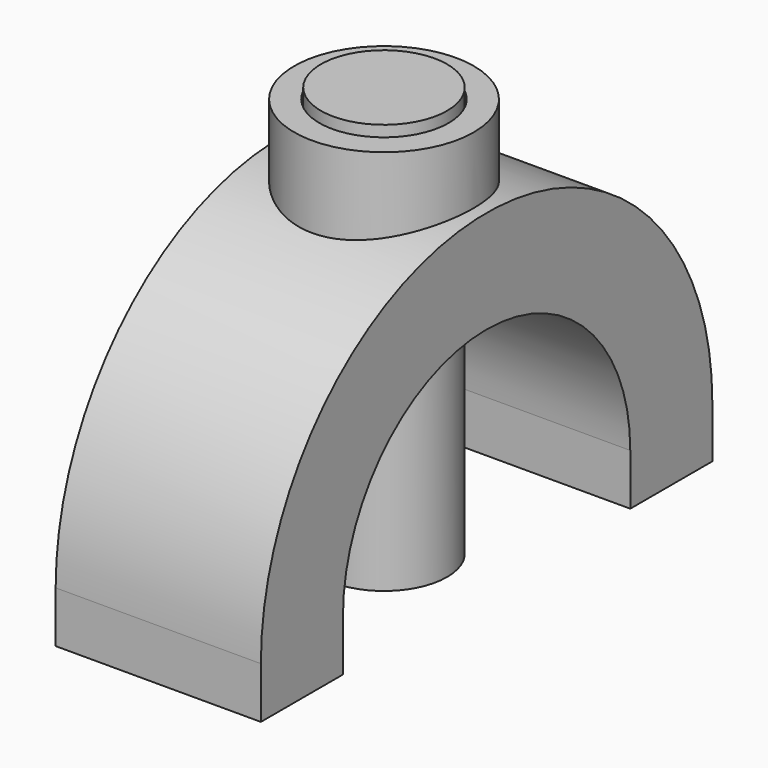
from build123d import *

# Parameters (mm, degrees)
F0_W          = 20
F0_H          = 10
F1_DEPTH      = 20
F1_DEPTH_BACK = 20
F3_R          = 17.5
F3_R_2        = 12.6
F4_DEPTH      = 30
F5_DEPTH      = 30
F5_DEPTH_BACK = 40
F6_R          = 12.3
F7_DEPTH      = 80


with BuildPart() as f1:
    # F0 (on Right) → F1 (new body, two sides)
    with BuildSketch(Plane.YZ) as f1_sk:
        with BuildLine():
            ThreePointArc((-35, 10), (0, 45), (35, 10))
            Line((35, 10), (55, 10))
            ThreePointArc((55, 10), (0, 65), (-55, 10))
            Line((-55, 10), (-35, 10))
        make_face()
        with Locations((-45, 5)):
            Rectangle(F0_W, F0_H)
        with Locations((45, 5)):
            Rectangle(F0_W, F0_H)
    extrude(amount=F1_DEPTH)
    extrude(f1_sk.sketch, amount=-F1_DEPTH_BACK)

    # F3 (on offset) → F4 (join)
    with BuildSketch(Plane.XY.offset(48)):
        Circle(F3_R)
        Circle(F3_R_2, mode=Mode.SUBTRACT)
    extrude(amount=F4_DEPTH)

    # F3 (on offset) → F5 (cut, two sides)
    with BuildSketch(Plane.XY.offset(48)) as f5_sk:
        Circle(F3_R_2)
    extrude(amount=-F5_DEPTH, mode=Mode.SUBTRACT)
    extrude(f5_sk.sketch, amount=F5_DEPTH_BACK, mode=Mode.SUBTRACT)


with BuildPart() as f7:
    # F6 (on Top) → F7 (new body)
    with BuildSketch(Plane.XY):
        Circle(F6_R)
    extrude(amount=F7_DEPTH)


solid = Compound([f1.part, f7.part])
